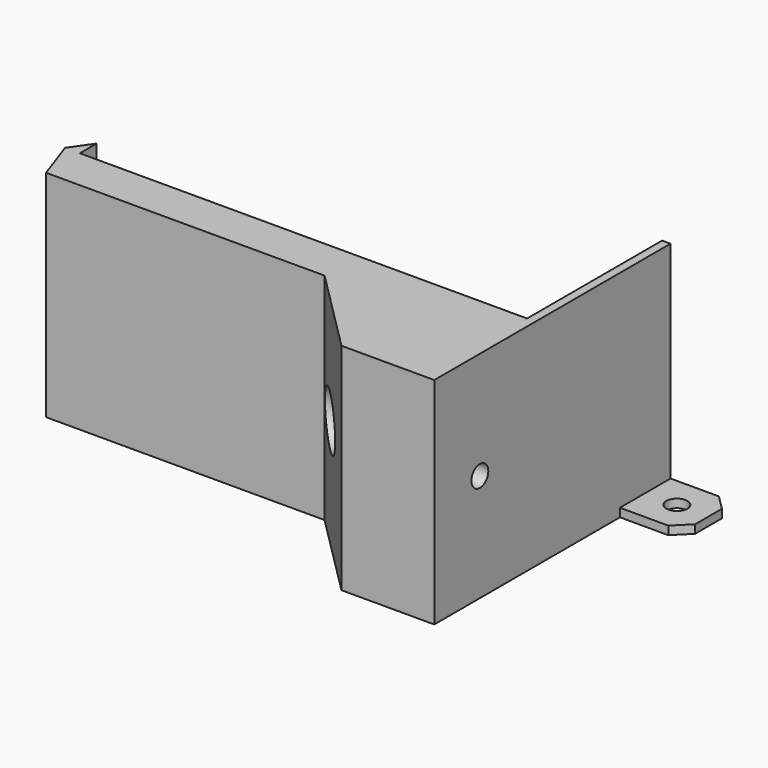
from build123d import *

# Parameters (mm, degrees)
PAD004_DEPTH    = 51
POCKET008_DEPTH = 49
SKETCH014_R     = 2.5
POCKET009_DEPTH = 111.501
SKETCH015_R     = 6
POCKET010_DEPTH = 27
PAD005_DEPTH    = 2
SKETCH017_R     = 2.5
POCKET011_DEPTH = 5


with BuildPart() as part:
    # Sketch012 → Pad004 (new body)
    with BuildSketch(Plane.XY):
        Polygon((40, 50), (-66, 15), (-69.5, 10), (-66, 0), (0, 0), (20, -20), (42, -20), (42, 50), align=None)
    extrude(amount=PAD004_DEPTH)

    # Sketch013 (on Face10 of Pad004) → Pocket008 (cut)
    with BuildSketch(Plane.XY.offset(51)):
        Polygon((40, 50), (-66, 15), (-66, 10), (40, 10), align=None)
    extrude(amount=-POCKET008_DEPTH, mode=Mode.SUBTRACT)

    # Sketch014 (on Face10 of Pocket008) → Pocket009 (cut, through all)
    with BuildSketch(Plane.YZ.offset(42)):
        with Locations((-6.5, 25.5)):
            Circle(SKETCH014_R)
    extrude(amount=-POCKET009_DEPTH, mode=Mode.SUBTRACT)

    # Sketch015 → Pocket010 (cut)
    with BuildSketch(Plane.YZ):
        with Locations((-6.5, 25.5)):
            Circle(SKETCH015_R)
    extrude(amount=POCKET010_DEPTH, mode=Mode.SUBTRACT)

    # Sketch016 → Pad005 (join)
    with BuildSketch(Plane.XY):
        Polygon((53.464466, 50), (42, 50), (42, 35), (53.464466, 35), (57, 38.535534), (57, 46.464466), align=None)
    extrude(amount=PAD005_DEPTH)

    # Sketch017 (on Face19 of Pad005) → Pocket011 (cut)
    with BuildSketch(Plane.XY.offset(2)):
        with Locations((49.5, 42.5)):
            Circle(SKETCH017_R)
    extrude(amount=-POCKET011_DEPTH, mode=Mode.SUBTRACT)


with BuildPart() as part_1:
    # Body001 placement: moved
    add(part.part.moved(Location((-99, 14, -66.5))))


solid = part_1.part
